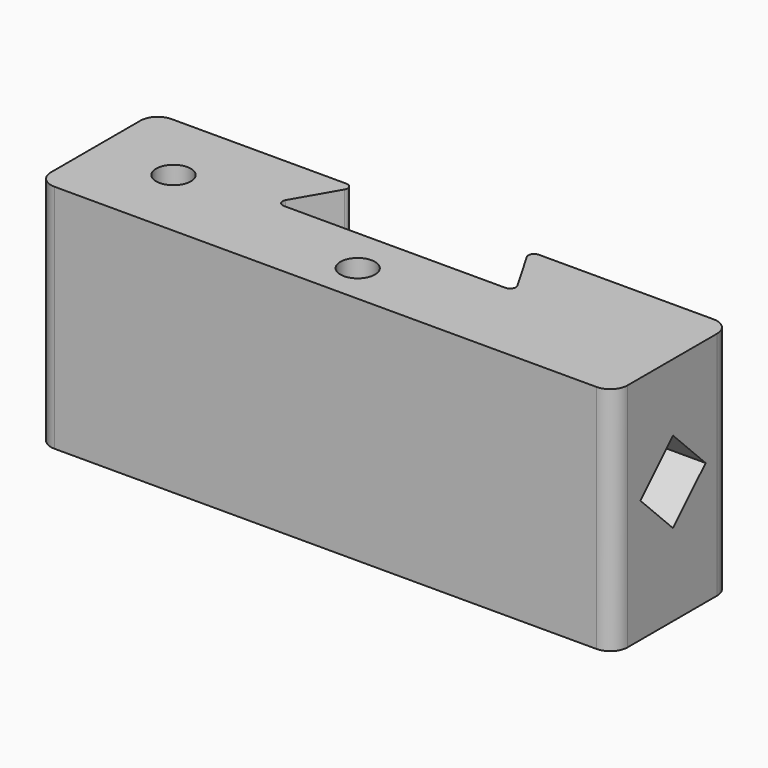
from build123d import *

# Parameters (mm, degrees)
PAD_DEPTH       = 40
FILLET_R        = 1
FILLET001_R     = 3
SKETCH001_R     = 3
POCKET_DEPTH    = 40.001
POCKET001_DEPTH = 100.001
SKETCH004_R     = 3
POCKET002_DEPTH = 40.001


with BuildPart() as part:
    # Sketch → Pad (new body)
    with BuildSketch(Plane.XY):
        Polygon((-14.945557, 10.4), (-20.95, 0), (20.95, 0), (14.945557, 10.4), (50, 10.4), (50, -15), (-50, -15), (-50, 10.4), align=None)
    extrude(amount=PAD_DEPTH)

    # Fillet
    fillet_edges = [part.edges().sort_by_distance(p)[0] for p in [
        (20.95, 0, 20),
        (-20.95, 0, 20),
        (-14.945557, 10.4, 20),
        (14.945557, 10.4, 20),
    ]]
    fillet(fillet_edges, radius=FILLET_R)

    # Fillet001
    fillet001_edges = [part.edges().sort_by_distance(p)[0] for p in [
        (-50, 10.4, 20),
        (50, 10.4, 20),
        (50, -15, 20),
        (-50, -15, 20),
    ]]
    fillet(fillet001_edges, radius=FILLET001_R)

    # Sketch001 → Pocket (cut, through all)
    with BuildSketch(Plane(origin=(0, 0, 0), x_dir=(1, 0, 0), z_dir=(0, 0, -1))):
        with Locations((0, 8)):
            Circle(SKETCH001_R)
    extrude(amount=-POCKET_DEPTH, mode=Mode.SUBTRACT)

    # Sketch002 → Pocket001 (cut, through all)
    with BuildSketch(Plane(origin=(-50, 0, 0), x_dir=(0, -1, 0), z_dir=(-1, 0, 0))):
        Polygon((2.157222, 14.193818), (-4.913846, 21.264885), (2.157222, 28.335953), (9.22829, 21.264885), align=None)
    extrude(amount=-POCKET001_DEPTH, mode=Mode.SUBTRACT)

    # Sketch004 → Pocket002 (cut, through all)
    with BuildSketch(Plane.XY.offset(40)):
        with Locations((-36.544449, -2.244335)):
            Circle(SKETCH004_R)
    extrude(amount=-POCKET002_DEPTH, mode=Mode.SUBTRACT)


solid = part.part
